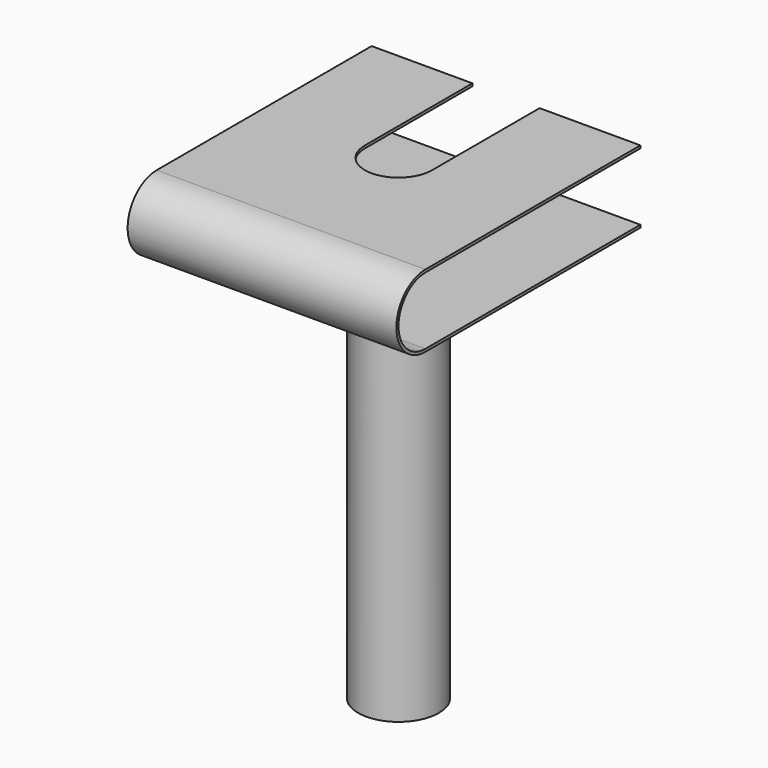
from build123d import *

# Parameters (mm, degrees)
F1_DEPTH = 10
F3_DEPTH = 0.2
F4_R     = 3
F5_DEPTH = 30


with BuildPart() as f1:
    # F0 (on Right) → F1 (new body, symmetric)
    with BuildSketch(Plane.YZ):
        with BuildLine():
            Line((-10, 5), (10, 5))
            Line((10, 5), (10, 5.2))
            Line((10, 5.2), (-10, 5.2))
            ThreePointArc((-10, 5.2), (-12.7, 2.5), (-10, -0.2))
            Line((-10, -0.2), (10, -0.2))
            Line((10, -0.2), (10, 0))
            Line((10, 0), (-10, 0))
            ThreePointArc((-10, 0), (-12.5, 2.5), (-10, 5))
        make_face()
    extrude(amount=F1_DEPTH, both=True)

    # F2 (on face) → F3 (cut, through all)
    with BuildSketch(Plane.XY.offset(5.2)):
        with BuildLine():
            Line((-2.5, 10), (-2.5, 0))
            ThreePointArc((-2.5, 0), (0, -2.5), (2.5, 0))
            Line((2.5, 0), (2.5, 10))
            Line((2.5, 10), (-2.5, 10))
        make_face()
    extrude(amount=-F3_DEPTH, mode=Mode.SUBTRACT)

    # F4 (on face) → F5 (join)
    with BuildSketch(Plane(origin=(0, 0, -0.2), x_dir=(1, 0, 0), z_dir=(0, 0, -1))):
        Circle(F4_R)
    extrude(amount=F5_DEPTH)


solid = f1.part
